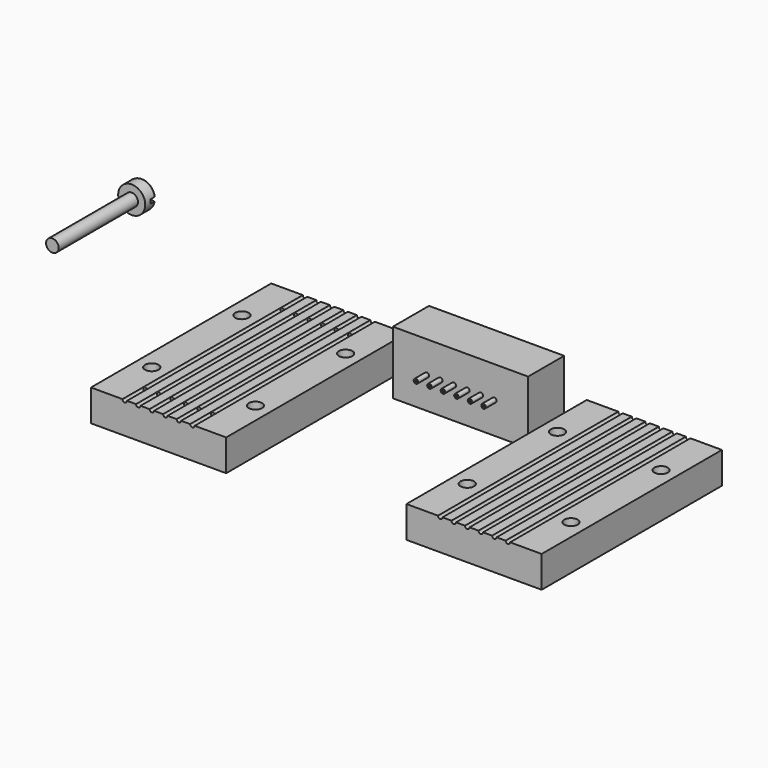
from build123d import *

# Parameters (mm, degrees)
F1_DEPTH  = 50
F2_R      = 0.5
F2_R_2    = 0.2
F3_DEPTH  = 13
F4_DEPTH  = 10
F5_R      = 3
F5_R_2    = 1.4
F6_DEPTH  = 3
F7_DEPTH  = 25
F9_DEPTH  = 1.5
F10_R     = 0.5
F11_R     = 1.5
F11_R_2   = 0.5
F13_DEPTH = 25
F14_R     = 1.5
F15_DEPTH = 25


with BuildPart() as f1:
    # F0 (on Front) → F1 (new body)
    with BuildSketch(Plane.XZ):
        with BuildLine():
            Line((0, 7), (0, 0))
            Line((0, 0), (30, 0))
            Line((30, 0), (30, 7))
            Line((30, 7), (23, 7))
            ThreePointArc((23, 7), (22.5, 6.5), (22, 7))
            Line((22, 7), (20, 7))
            ThreePointArc((20, 7), (19.5, 6.5), (19, 7))
            Line((19, 7), (17, 7))
            ThreePointArc((17, 7), (16.5, 6.5), (16, 7))
            Line((16, 7), (14, 7))
            ThreePointArc((14, 7), (13.5, 6.5), (13, 7))
            Line((13, 7), (11, 7))
            ThreePointArc((11, 7), (10.5, 6.5), (10, 7))
            Line((10, 7), (8, 7))
            ThreePointArc((8, 7), (7.5, 6.5), (7, 7))
            Line((7, 7), (0, 7))
        make_face()
    extrude(amount=F1_DEPTH)


with BuildPart() as f3:
    # F2 (on Front) → F3 (new body)
    with BuildSketch(Plane.XZ):
        with Locations((51.5, 7)):
            Circle(F2_R)
        with Locations((51.5, 7)):
            Circle(F2_R_2, mode=Mode.SUBTRACT)
    extrude(amount=F3_DEPTH)



with BuildPart() as f3b:
    # F2 (on Front) → F3, piece 2 (new body)
    with BuildSketch(Plane.XZ):
        with Locations((48.5, 7)):
            Circle(F2_R)
        with Locations((48.5, 7)):
            Circle(F2_R_2, mode=Mode.SUBTRACT)
    extrude(amount=F3_DEPTH)


with BuildPart() as f3c:
    # F2 (on Front) → F3, piece 3 (new body)
    with BuildSketch(Plane.XZ):
        with Locations((45.5, 7)):
            Circle(F2_R)
        with Locations((45.5, 7)):
            Circle(F2_R_2, mode=Mode.SUBTRACT)
    extrude(amount=F3_DEPTH)


with BuildPart() as f3d:
    # F2 (on Front) → F3, piece 4 (new body)
    with BuildSketch(Plane.XZ):
        with Locations((42.5, 7)):
            Circle(F2_R)
        with Locations((42.5, 7)):
            Circle(F2_R_2, mode=Mode.SUBTRACT)
    extrude(amount=F3_DEPTH)


with BuildPart() as f3e:
    # F2 (on Front) → F3, piece 5 (new body)
    with BuildSketch(Plane.XZ):
        with Locations((54.5, 7)):
            Circle(F2_R)
        with Locations((54.5, 7)):
            Circle(F2_R_2, mode=Mode.SUBTRACT)
    extrude(amount=F3_DEPTH)


with BuildPart() as f3f:
    # F2 (on Front) → F3, piece 6 (new body)
    with BuildSketch(Plane.XZ):
        with Locations((57.5, 7)):
            Circle(F2_R)
        with Locations((57.5, 7)):
            Circle(F2_R_2, mode=Mode.SUBTRACT)
    extrude(amount=F3_DEPTH)


with BuildPart() as f3_1:
    add(f3.part)

    add(f3b.part)  # F4 merges F3b

    add(f3c.part)  # F4 merges F3c

    add(f3d.part)  # F4 merges F3d

    add(f3e.part)  # F4 merges F3e

    add(f3f.part)  # F4 merges F3f
    # F2 (on Front) → F4 (join)
    with BuildSketch(Plane.XZ):
        Polygon((35, 7), (35, 0), (65, 0), (65, 7), (65, 14), (35, 14), align=None)
        with Locations((42.5, 7)):
            Circle(F2_R, mode=Mode.SUBTRACT)
        with Locations((45.5, 7)):
            Circle(F2_R, mode=Mode.SUBTRACT)
        with Locations((48.5, 7)):
            Circle(F2_R, mode=Mode.SUBTRACT)
        with Locations((51.5, 7)):
            Circle(F2_R, mode=Mode.SUBTRACT)
        with Locations((54.5, 7)):
            Circle(F2_R, mode=Mode.SUBTRACT)
        with Locations((57.5, 7)):
            Circle(F2_R, mode=Mode.SUBTRACT)
    extrude(amount=F4_DEPTH)


with BuildPart() as f6:
    # F5 (on Front) → F6 (new body)
    with BuildSketch(Plane.XZ):
        with Locations((-28.5615846515, 15.2765717357)):
            Circle(F5_R)
        with Locations((-28.5615846515, 15.2765717357)):
            Circle(F5_R_2, mode=Mode.SUBTRACT)
        with Locations((-28.5615846515, 15.2765717357)):
            Circle(F5_R_2)
    extrude(amount=F6_DEPTH)

    # F5 (on Front) → F7 (join)
    with BuildSketch(Plane.XZ):
        with Locations((-28.5615846515, 15.2765717357)):
            Circle(F5_R_2)
    extrude(amount=F7_DEPTH)

    # F8 (on face) → F9 (cut)
    with BuildSketch(Plane.XZ):
        with BuildLine():
            ThreePointArc((-29.8908109833, 14.8370750248), (-29.9615846515, 15.2765717357), (-29.8908109833, 15.7160684466))
            Line((-29.8908109833, 15.7160684466), (-31.5292171491, 15.7160684466))
            ThreePointArc((-31.5292171491, 15.7160684466), (-31.5615846515, 15.2765717357), (-31.5292171491, 14.8370750248))
            Line((-31.5292171491, 14.8370750248), (-29.8908109833, 14.8370750248))
        make_face()
        with BuildLine():
            ThreePointArc((-27.2323583197, 14.8370750248), (-27.1793913103, 15.0539923842), (-27.1615846515, 15.2765717357))
            ThreePointArc((-27.1615846515, 15.2765717357), (-27.1793913103, 15.4991510873), (-27.2323583197, 15.7160684466))
            Line((-27.2323583197, 15.7160684466), (-29.8908109833, 15.7160684466))
            ThreePointArc((-29.8908109833, 15.7160684466), (-29.9615846515, 15.2765717357), (-29.8908109833, 14.8370750248))
            Line((-29.8908109833, 14.8370750248), (-27.2323583197, 14.8370750248))
        make_face()
        with BuildLine():
            ThreePointArc((-27.2323583197, 15.7160684466), (-27.1793913103, 15.4991510873), (-27.1615846515, 15.2765717357))
            ThreePointArc((-27.1615846515, 15.2765717357), (-27.1793913103, 15.0539923842), (-27.2323583197, 14.8370750248))
            Line((-27.2323583197, 14.8370750248), (-25.5939521538, 14.8370750248))
            ThreePointArc((-25.5939521538, 14.8370750248), (-25.5696874697, 15.0562282459), (-25.5615846515, 15.2765717357))
            ThreePointArc((-25.5615846515, 15.2765717357), (-25.5696874697, 15.4969152256), (-25.5939521538, 15.7160684466))
            Line((-25.5939521538, 15.7160684466), (-27.2323583197, 15.7160684466))
        make_face()
    extrude(amount=F9_DEPTH, mode=Mode.SUBTRACT)

    # F10
    f10_edges = [f6.edges().sort_by_distance(p)[0] for p in [
        (-28.561585, 0, 15.716068),
        (-28.561585, 0, 18.276572),
        (-28.561585, 0, 12.276572),
        (-28.561585, 0, 14.837075),
    ]]
    fillet(f10_edges, radius=F10_R)


with BuildPart() as f12_1:
    # F12: copy of F1
    add(f1.part.moved(Location((70, 0, 0))))

    # F14 (on face) → F15 (cut)
    with BuildSketch(Plane(origin=(0, 0, 0), x_dir=(1, 0, 0), z_dir=(0, 0, -1))):
        with Locations((96.5, 37.5)):
            Circle(F14_R)
        with Locations((96.5, 12.5)):
            Circle(F14_R)
        with Locations((73.5, 37.5)):
            Circle(F14_R)
        with Locations((73.5, 12.5)):
            Circle(F14_R)
    extrude(amount=-F15_DEPTH, mode=Mode.SUBTRACT)


with BuildPart() as f1_1:
    add(f1.part)

    # F11 (on face) → F13 (cut)
    with BuildSketch(Plane(origin=(0, 0, 0), x_dir=(1, 0, 0), z_dir=(0, 0, -1))):
        with Locations((3.5, 12.5)):
            Circle(F11_R)
        with Locations((3.5, 37.5)):
            Circle(F11_R)
        with Locations((26.5, 12.5)):
            Circle(F11_R)
        with Locations((26.5, 37.5)):
            Circle(F11_R)
        with Locations((7.5, 6)):
            Circle(F11_R_2)
        with Locations((7.5, 44)):
            Circle(F11_R_2)
        with Locations((10.5, 6)):
            Circle(F11_R_2)
        with Locations((10.5, 44)):
            Circle(F11_R_2)
        with Locations((13.5, 6)):
            Circle(F11_R_2)
        with Locations((13.5, 44)):
            Circle(F11_R_2)
        with Locations((16.5, 6)):
            Circle(F11_R_2)
        with Locations((16.5, 44)):
            Circle(F11_R_2)
        with Locations((19.5, 6)):
            Circle(F11_R_2)
        with Locations((19.5, 44)):
            Circle(F11_R_2)
        with Locations((22.5, 6)):
            Circle(F11_R_2)
        with Locations((22.5, 44)):
            Circle(F11_R_2)
    extrude(amount=-F13_DEPTH, mode=Mode.SUBTRACT)


solid = Compound([f3_1.part, f6.part, f12_1.part, f1_1.part])
